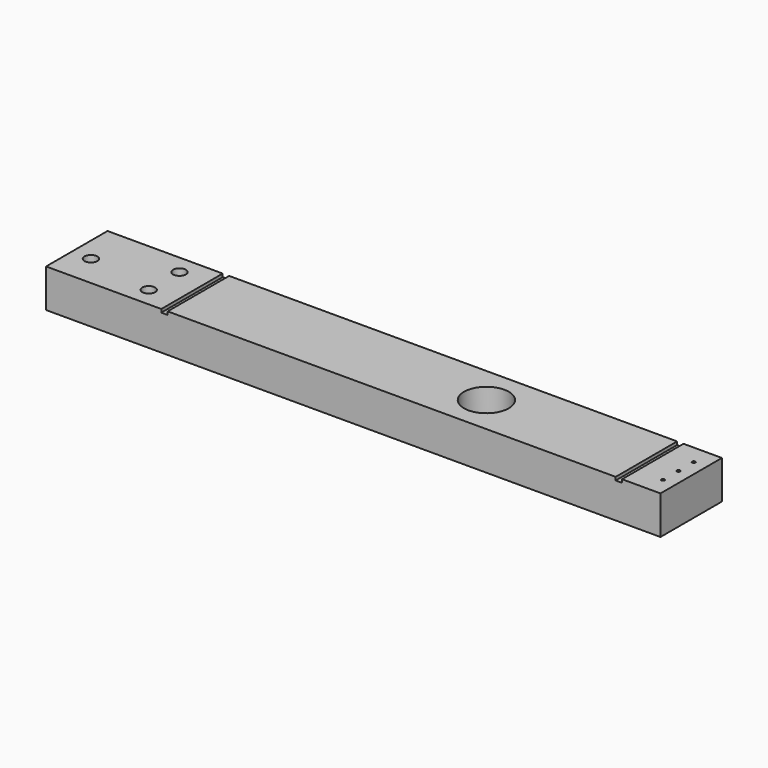
from build123d import *

# Parameters (mm, degrees)
F0_W      = 304.8
F0_H      = 38.1
F1_DEPTH  = 19.05
F2_R      = 11.1125
F3_DEPTH  = 12.7
F4_R      = 3.175
F5_DEPTH  = 19.051
F6_R      = 3.175
F7_DEPTH  = 19.051
F8_R      = 0.79375
F9_DEPTH  = 19.051
F10_W     = 3.175
F10_H     = 1.5875
F11_DEPTH = 38.101


with BuildPart() as f1:
    # F0 (on Top) → F1 (new body)
    with BuildSketch(Plane.XY):
        with Locations((84.480461, 0)):
            Rectangle(F0_W, F0_H)
    extrude(amount=F1_DEPTH)

    # F2 (on face) → F3 (cut)
    with BuildSketch(Plane.XY.offset(19.05)):
        with Locations((135.280461, 0)):
            Circle(F2_R)
    extrude(amount=-F3_DEPTH, mode=Mode.SUBTRACT)

    # F4 (on face) → F5 (cut, through all)
    with BuildSketch(Plane.XY.offset(19.05)):
        with Locations((-58.394539, -3.175)):
            Circle(F4_R)
    extrude(amount=-F5_DEPTH, mode=Mode.SUBTRACT)

    # F6 (on face) → F7 (cut, through all)
    with BuildSketch(Plane.XY.offset(19.05)):
        with Locations((-24.612539, -9.525)):
            Circle(F6_R)
        with Locations((-24.612539, 9.525)):
            Circle(F6_R)
    extrude(amount=-F7_DEPTH, mode=Mode.SUBTRACT)

    # F8 (on face) → F9 (cut, through all)
    with BuildSketch(Plane.XY.offset(19.05)):
        with Locations((230.530461, 9.525)):
            Circle(F8_R)
        with Locations((230.530461, 0)):
            Circle(F8_R)
        with Locations((230.530461, -9.525)):
            Circle(F8_R)
    extrude(amount=-F9_DEPTH, mode=Mode.SUBTRACT)

    # F10 (on face) → F11 (cut, through all)
    with BuildSketch(Plane.XZ.offset(19.05)):
        with Locations((-9.182039, 18.25625)):
            Rectangle(F10_W, F10_H)
        with Locations((216.242961, 18.25625)):
            Rectangle(F10_W, F10_H)
    extrude(amount=-F11_DEPTH, mode=Mode.SUBTRACT)


solid = f1.part
